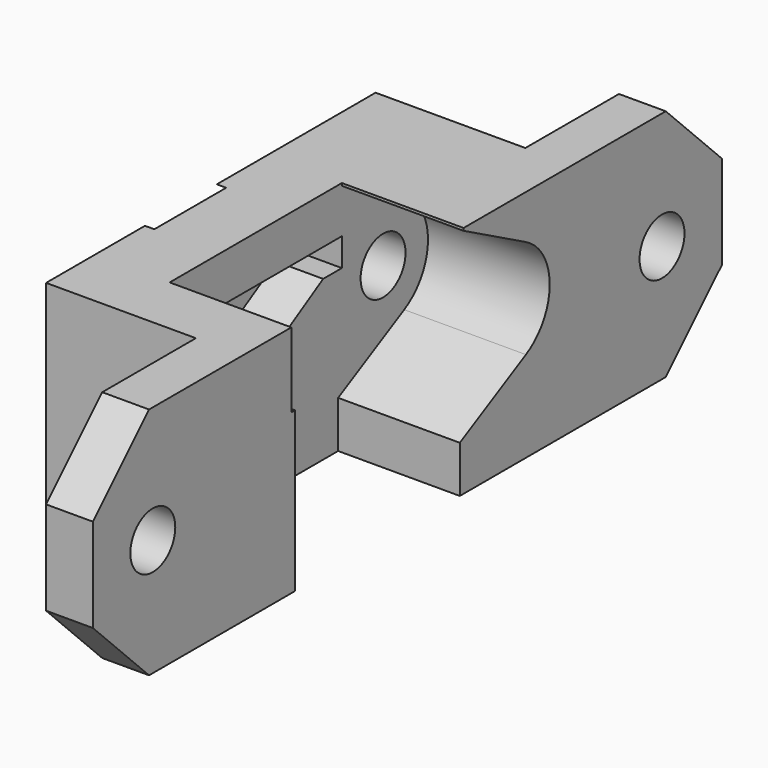
from build123d import *

# Parameters (mm, degrees)
F3_R      = 1.5
F3_W      = 3.5
F3_H      = 12.5
F4_DEPTH  = 6.5
F5_R      = 1.5
F6_DEPTH  = 4
F7_DEPTH  = 2.5
F8_DEPTH  = 4
F5_W      = 1.25
F5_H      = 1.5
F9_DEPTH  = 25
F10_W     = 3
F10_H     = 1
F11_DEPTH = 0.6
F12_DEPTH = 0.5


with BuildPart() as f4:
    # F3 (on offset) → F4 (new body)
    with BuildSketch(Plane.YZ.offset(4)):
        Polygon((-15.25, 0), (-9, 0), (-9, 12.5), (-15.25, 12.5), (-19, 8.75), (-19, 3.75), align=None)
        with Locations((-15, 6.25)):
            Circle(F3_R, mode=Mode.SUBTRACT)
        with Locations((-7.25, 6.25)):
            Rectangle(F3_W, F3_H)
        with BuildLine():
            Line((5.5, 0), (13, 0))
            Line((13, 0), (13, 12.5))
            Line((13, 12.5), (5.5, 12.5))
            Line((5.5, 12.5), (9.911765, 10.147059))
            ThreePointArc((9.911765, 10.147059), (11.5, 7.5), (9.911765, 4.852941))
            Line((9.911765, 4.852941), (5.5, 2.5))
            Line((5.5, 2.5), (5.5, 0))
        make_face()
        Polygon((13, 12.5), (13, 0), (19.25, 0), (23, 3.75), (23, 8.75), (19.25, 12.5), align=None)
        with Locations((19, 6.25)):
            Circle(F3_R, mode=Mode.SUBTRACT)
    extrude(amount=F4_DEPTH)

    # F5 (on offset) → F6 (join, through all)
    with BuildSketch(Plane.YZ.offset(4)):
        with BuildLine():
            Line((-5.75, 10), (-5.75, 12.5))
            Line((-5.75, 12.5), (-9, 12.5))
            Line((-9, 12.5), (-9, 0))
            Line((-9, 0), (13, 0))
            Line((13, 0), (13, 12.5))
            Line((13, 12.5), (5.75, 12.5))
            Line((5.75, 12.5), (5.75, 10))
            Line((5.75, 10), (5.75, 8.5))
            Line((5.75, 8.5), (4.5, 8.5))
            Line((4.5, 8.5), (0.509121, 6.139305))
            ThreePointArc((0.509121, 6.139305), (0, 6), (-0.509121, 6.139305))
            Line((-0.509121, 6.139305), (-4.5, 8.5))
            Line((-4.5, 8.5), (-5.75, 8.5))
            Line((-5.75, 8.5), (-5.75, 10))
        make_face()
        with Locations((8.5, 7.5)):
            Circle(F5_R, mode=Mode.SUBTRACT)
        Polygon((5.75, 12.5), (-5.75, 12.5), (-5.75, 10), (-4.5, 10), (4.5, 10), (5.75, 10), align=None)
        with BuildLine():
            Line((4.5, 10), (-4.5, 10))
            Line((-4.5, 10), (-4.5, 8.5))
            Line((-4.5, 8.5), (-0.509121, 6.139305))
            ThreePointArc((-0.509121, 6.139305), (0, 6), (0.509121, 6.139305))
            Line((0.509121, 6.139305), (4.5, 8.5))
            Line((4.5, 8.5), (4.5, 10))
        make_face()
    extrude(amount=-F6_DEPTH)

    # F5 (on offset) → F7 (cut)
    with BuildSketch(Plane.YZ.offset(4)):
        with BuildLine():
            Line((4.5, 10), (-4.5, 10))
            Line((-4.5, 10), (-4.5, 8.5))
            Line((-4.5, 8.5), (-0.509121, 6.139305))
            ThreePointArc((-0.509121, 6.139305), (0, 6), (0.509121, 6.139305))
            Line((0.509121, 6.139305), (4.5, 8.5))
            Line((4.5, 8.5), (4.5, 10))
        make_face()
    extrude(amount=-F7_DEPTH, mode=Mode.SUBTRACT)

    # F3 (on offset) → F8 (cut)
    with BuildSketch(Plane.YZ.offset(4)):
        Polygon((-15.25, 0), (-9, 0), (-9, 12.5), (-15.25, 12.5), (-19, 8.75), (-19, 3.75), align=None)
        with Locations((-15, 6.25)):
            Circle(F3_R, mode=Mode.SUBTRACT)
        Polygon((13, 12.5), (13, 0), (19.25, 0), (23, 3.75), (23, 8.75), (19.25, 12.5), align=None)
        with Locations((19, 6.25)):
            Circle(F3_R, mode=Mode.SUBTRACT)
    extrude(amount=F8_DEPTH, mode=Mode.SUBTRACT)

    # F5 (on offset) → F9 (cut)
    with BuildSketch(Plane.YZ.offset(4)):
        Polygon((5.75, 12.5), (-5.75, 12.5), (-5.75, 10), (-4.5, 10), (4.5, 10), (5.75, 10), align=None)
        with Locations((-5.125, 9.25)):
            Rectangle(F5_W, F5_H)
    extrude(amount=F9_DEPTH, mode=Mode.SUBTRACT)

    # F10 (on face) → F11 (cut)
    with BuildSketch(Plane(origin=(0, 0, 0), x_dir=(0, -1, 0), z_dir=(-1, 0, 0))):
        Polygon((-10.5, 12), (-11.5, 12), (-11.5, 11), (-12.5, 11), (-12.5, 10), (-11.5, 10), (-11.5, 9), (-10.5, 9), (-10.5, 10), (-9.5, 10), (-9.5, 11), (-10.5, 11), align=None)
        with Locations((-11, 1)):
            Rectangle(F10_W, F10_H)
    extrude(amount=-F11_DEPTH, mode=Mode.SUBTRACT)

    # F0 (on Right) → F12 (cut)
    with BuildSketch(Plane.YZ):
        with BuildLine():
            Line((-4.5, 8.5), (-5.75, 8.5))
            Line((-5.75, 8.5), (-5.75, 0))
            Line((-5.75, 0), (5.75, 0))
            Line((5.75, 0), (5.75, 8.5))
            Line((5.75, 8.5), (4.5, 8.5))
            Line((4.5, 8.5), (4.5, 10))
            Line((4.5, 10), (5.196152, 10))
            ThreePointArc((5.196152, 10), (0, 13), (-5.196152, 10))
            Line((-5.196152, 10), (-4.5, 10))
            Line((-4.5, 10), (-4.5, 8.5))
        make_face()
    extrude(amount=F12_DEPTH, mode=Mode.SUBTRACT)


solid = f4.part
